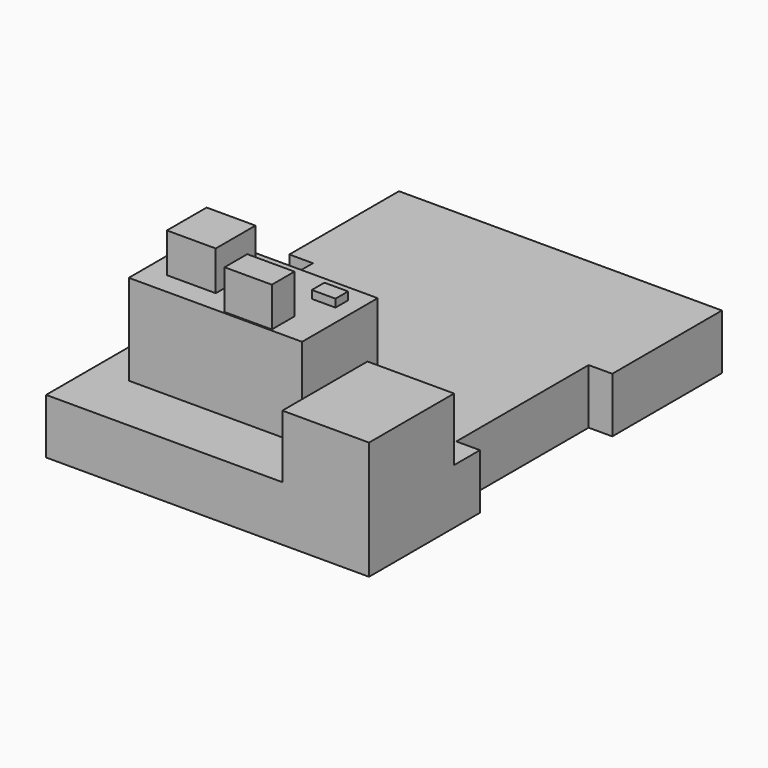
from build123d import *

# Parameters (mm, degrees)
F1_DEPTH = 7
F2_W     = 11
F2_H     = 13.5
F3_DEPTH = 8
F4_W     = 22
F4_H     = 12
F5_DEPTH = 11.5
F6_W     = 3
F6_H     = 2
F7_DEPTH = 1
F6_W_2   = 6.2
F6_H_2   = 6.3
F6_W_3   = 6
F6_H_3   = 3.6
F8_DEPTH = 5


with BuildPart() as f1:
    # F0 (on Top) → F1 (new body)
    with BuildSketch(Plane.XY):
        Polygon((4.890249, 40.097855), (-36.109751, 40.097855), (-36.109751, 22.697855), (-33.109751, 22.697855), (-33.109751, 1.697855), (-36.109751, 1.697855), (-36.109751, -15.902145), (4.890249, -15.902145), (4.890249, 1.697855), (1.890249, 1.697855), (1.890249, 22.697855), (4.890249, 22.697855), align=None)
    extrude(amount=F1_DEPTH)

    # F2 (on face) → F3 (join)
    with BuildSketch(Plane.XY.offset(7)):
        with Locations((-0.609751, -9.152145)):
            Rectangle(F2_W, F2_H)
    extrude(amount=F3_DEPTH)

    # F4 (on face) → F5 (join)
    with BuildSketch(Plane.XY.offset(7)):
        with Locations((-20.609751, -2.402145)):
            Rectangle(F4_W, F4_H)
    extrude(amount=F5_DEPTH)

    # F6 (on face) → F7 (join)
    with BuildSketch(Plane.XY.offset(18.5)):
        with Locations((-13.109751, 0.397855)):
            Rectangle(F6_W, F6_H)
    extrude(amount=F7_DEPTH)

    # F6 (on face) → F8 (join)
    with BuildSketch(Plane.XY.offset(18.5)):
        with Locations((-25.909751, -2.452145)):
            Rectangle(F6_W_2, F6_H_2)
        with Locations((-16.609751, -6.402145)):
            Rectangle(F6_W_3, F6_H_3)
    extrude(amount=F8_DEPTH)


solid = f1.part
